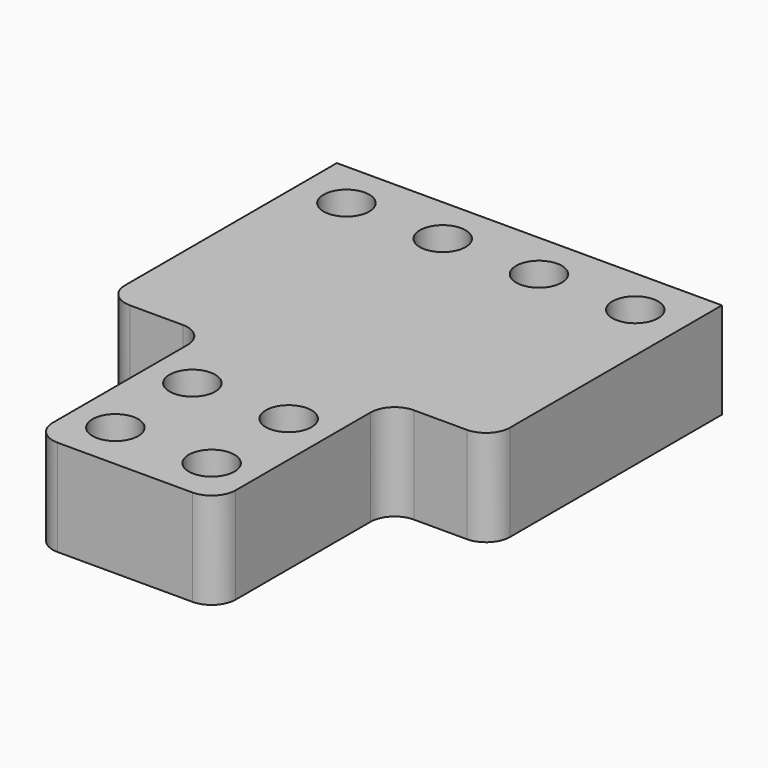
from build123d import *

# Parameters (mm, degrees)
SKETCH_W        = 80
SKETCH_H        = 20
PAD_DEPTH       = 52.5
SKETCH001_R     = 2.75
POCKET_DEPTH    = 20.001
SKETCH002_R     = 4.75
POCKET001_DEPTH = 5.54
SKETCH003_W     = 21
SKETCH003_H     = 45
POCKET002_DEPTH = 20.001
FILLET_R        = 5


with BuildPart() as part:
    # Sketch → Pad (new body, symmetric)
    with BuildSketch(Plane.XZ):
        with Locations((0, -10)):
            Rectangle(SKETCH_W, SKETCH_H)
    extrude(amount=PAD_DEPTH, both=True)

    # Sketch001 (on Face4 of Pad) → Pocket (cut, through all)
    with BuildSketch(Plane(origin=(0, 0, 0), x_dir=(-1, 0, 0), z_dir=(0, 0, 1))):
        with Locations((-30, -42.5)):
            Circle(SKETCH001_R)
        with Locations((30, -42.5)):
            Circle(SKETCH001_R)
        with Locations((-10, 42.5)):
            Circle(SKETCH001_R)
        with Locations((10, 42.5)):
            Circle(SKETCH001_R)
        with Locations((-10, 22.5)):
            Circle(SKETCH001_R)
        with Locations((10, 22.5)):
            Circle(SKETCH001_R)
        with Locations((-10, -42.5)):
            Circle(SKETCH001_R)
        with Locations((10, -42.5)):
            Circle(SKETCH001_R)
    extrude(amount=-POCKET_DEPTH, mode=Mode.SUBTRACT)

    # Sketch002 (on Face2 of Pocket) → Pocket001 (cut)
    with BuildSketch(Plane(origin=(0, 0, 0), x_dir=(-1, 0, 0), z_dir=(0, 0, 1))):
        with Locations((-10, 42.5)):
            Circle(SKETCH002_R)
        with Locations((10, 42.5)):
            Circle(SKETCH002_R)
        with Locations((-10, 22.5)):
            Circle(SKETCH002_R)
        with Locations((10, 22.5)):
            Circle(SKETCH002_R)
        with Locations((10, -42.5)):
            Circle(SKETCH002_R)
        with Locations((30, -42.5)):
            Circle(SKETCH002_R)
        with Locations((-30, -42.5)):
            Circle(SKETCH002_R)
        with Locations((-10, -42.5)):
            Circle(SKETCH002_R)
    extrude(amount=-POCKET001_DEPTH, mode=Mode.SUBTRACT)

    # Sketch003 (on Face2 of Pocket001) → Pocket002 (cut, through all)
    with BuildSketch(Plane(origin=(0, 0, 0), x_dir=(-1, 0, 0), z_dir=(0, 0, 1))):
        with Locations((-29.5, 30)):
            Rectangle(SKETCH003_W, SKETCH003_H)
        with Locations((29.5, 30)):
            Rectangle(SKETCH003_W, SKETCH003_H)
    extrude(amount=-POCKET002_DEPTH, mode=Mode.SUBTRACT)

    # Fillet
    fillet_edges = [part.edges().sort_by_distance(p)[0] for p in [
        (40, -7.5, -10),
        (19, -7.5, -10),
        (19, -52.5, -10),
        (-19, -52.5, -10),
        (-19, -7.5, -10),
        (-40, -7.5, -10),
    ]]
    fillet(fillet_edges, radius=FILLET_R)


solid = part.part
